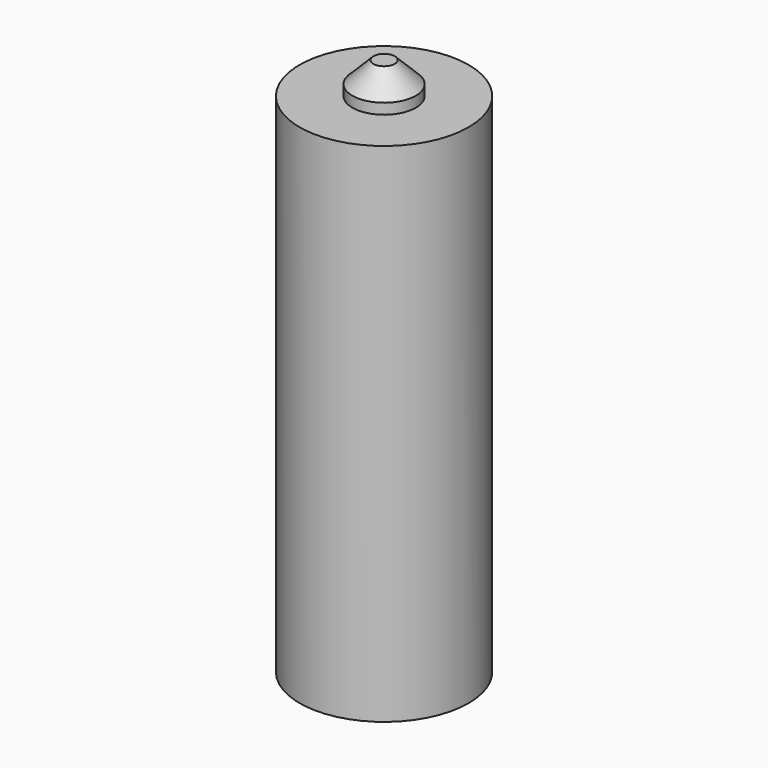
from build123d import *

# Parameters (mm, degrees)
SKETCH002_R     = 2
PAD003_DEPTH    = 12
SKETCH003_R     = 0.75
PAD004_DEPTH    = 0.75
CHAMFER001_SIZE = 0.5


with BuildPart() as part:
    # Sketch002 → Pad003 (new body)
    with BuildSketch(Plane.XY):
        Circle(SKETCH002_R)
    extrude(amount=PAD003_DEPTH)

    # Sketch003 (on Face3 of Pad003) → Pad004 (join)
    with BuildSketch(Plane.XY.offset(12)):
        Circle(SKETCH003_R)
    extrude(amount=PAD004_DEPTH)

    # Chamfer001
    chamfer001_edges = [part.edges().sort_by_distance(p)[0] for p in [
        (-0.75, 0, 12.75),
    ]]
    chamfer(chamfer001_edges, length=CHAMFER001_SIZE)


solid = part.part
